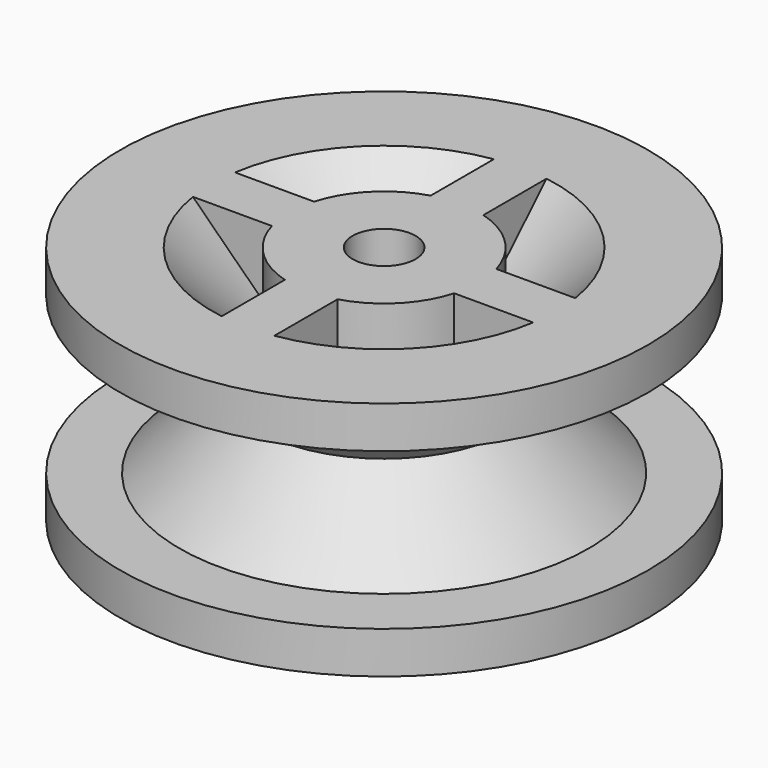
from build123d import *

# Parameters (mm, degrees)
F0_R     = 15.9004
F1_DEPTH = 7.239
F2_R     = 1.89865
F3_DEPTH = 14.479
F6_W     = 3.175
F6_H     = 7.62
F6_W_2   = 7.62
F6_H_2   = 3.175


with BuildPart() as f1:
    # F0 (on Top) → F1 (new body, symmetric)
    with BuildSketch(Plane.XY):
        Circle(F0_R)
    extrude(amount=F1_DEPTH, both=True)

    # F2 (on face) → F3 (cut, through all)
    with BuildSketch(Plane.XY.offset(7.239)):
        Circle(F2_R)
    extrude(amount=-F3_DEPTH, mode=Mode.SUBTRACT)

    # F4 (on Right) → F5 (revolve, cut)
    with BuildSketch(Plane.YZ):
        Polygon((7.62, 0), (12.3317, -4.7117), (16.1773537484, -4.7117), (16.1773537484, 4.7117), (12.3317, 4.7117), align=None)
        Polygon((11.7093047491, 8.5794328097), (5.715, 8.5794328097), (5.715, 2.5851280605), align=None)
    revolve(axis=Axis((0, 0, 6.2945708632), (0, 0, 1)), mode=Mode.SUBTRACT)

    # F6 (on face) → F7 (join, up to the next surface of F1)
    with BuildSketch(Plane.XY.offset(7.239)):
        with Locations((0, 8.4708621725)):
            Rectangle(F6_W, F6_H)
        with Locations((-8.4708621725, 0)):
            Rectangle(F6_W_2, F6_H_2)
        with Locations((0, -8.4708621725)):
            Rectangle(F6_W, F6_H)
        with Locations((8.4708621725, 0)):
            Rectangle(F6_W_2, F6_H_2)
    extrude(until=Until.NEXT, dir=(0, 0, -1))


solid = f1.part
